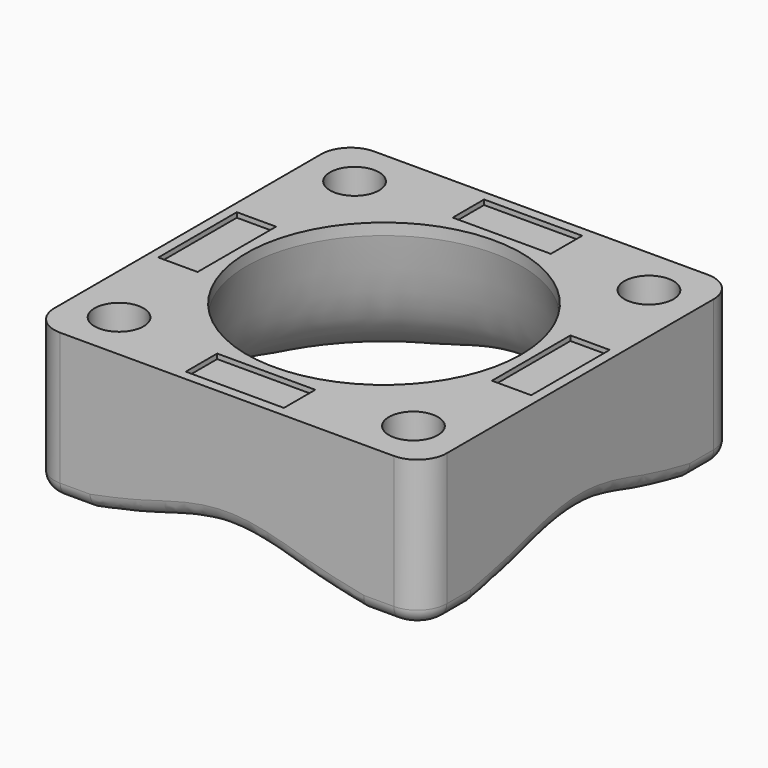
from build123d import *

# Parameters (mm, degrees)
SKETCH024_W           = 80
SKETCH024_H           = 80
PAD008_DEPTH          = 30
FILLET002_R           = 6
SKETCH025_R           = 28
POCKET005_DEPTH       = 30
SKETCH026_R           = 1.75
POCKET006_DEPTH       = 26
SKETCH027_R           = 5
POCKET007_DEPTH       = 10
CHAMFER003_SIZE       = 3
FILLET003_R           = 3
SKETCH029_W           = 20
SKETCH029_H           = 8
POCKET008_DEPTH       = 1
POLARPATTERN008_COUNT = 4
FILLET004_R           = 1.5


with BuildPart() as part:
    # Sketch024 → Pad008 (new body)
    with BuildSketch(Plane.XY):
        Rectangle(SKETCH024_W, SKETCH024_H)
    extrude(amount=-PAD008_DEPTH)

    # Fillet002
    fillet002_edges = [part.edges().sort_by_distance(p)[0] for p in [
        (-40, 40, -15),
        (40, 40, -15),
        (-40, -40, -15),
        (40, -40, -15),
    ]]
    fillet(fillet002_edges, radius=FILLET002_R)

    # Sketch025 (on Face2 of Fillet002) → Pocket005 (cut)
    with BuildSketch(Plane.XY):
        Circle(SKETCH025_R)
    extrude(amount=-POCKET005_DEPTH, mode=Mode.SUBTRACT)

    # Sketch026 (on Face2 of Pocket005) → Pocket006 (cut)
    with BuildSketch(Plane.XY):
        with Locations((-30, 30)):
            Circle(SKETCH026_R)
        with Locations((30, 30)):
            Circle(SKETCH026_R)
        with Locations((30, -30)):
            Circle(SKETCH026_R)
        with Locations((-30, -30)):
            Circle(SKETCH026_R)
    extrude(amount=-POCKET006_DEPTH, mode=Mode.SUBTRACT)

    # Sketch027 (on Face2 of Pocket006) → Pocket007 (cut)
    with BuildSketch(Plane.XY):
        with Locations((-30, -30)):
            Circle(SKETCH027_R)
        with Locations((30, -30)):
            Circle(SKETCH027_R)
        with Locations((30, 30)):
            Circle(SKETCH027_R)
        with Locations((-30, 30)):
            Circle(SKETCH027_R)
    extrude(amount=-POCKET007_DEPTH, mode=Mode.SUBTRACT)

    # Chamfer003
    chamfer003_edges = [part.edges().sort_by_distance(p)[0] for p in [
        (28.25, 30, -10),
        (-31.75, 30, -10),
        (28.25, -30, -10),
        (-31.75, -30, -10),
    ]]
    chamfer(chamfer003_edges, length=CHAMFER003_SIZE)

    # Sketch028 → Groove (revolve, cut)
    with BuildSketch(Plane(origin=(0, 0, 0), x_dir=(0.707107, 0.707107, 0), z_dir=(0.707107, -0.707107, 0))):
        with BuildLine():
            add(Edge.make_bspline(
                [(-27.190616, 3.555547), (-28.347025, -5.659561), (-30.8329, -18.742874), (-36.458788, -25.196108), (-40.623049, -28.4503), (-47.131438, -30.380753)],
                knots=[0, 0, 0, 0, 0.333333, 0.666667, 1, 1, 1, 1], degree=3))
            Line((-47.131438, -30.380753), (-30.227307, -45.760513))
            Line((-30.227307, -45.760513), (-12.906769, -36.421413))
            Line((-12.906769, -36.421413), (-23.789185, 4.701681))
            Line((-23.789185, 4.701681), (-27.190616, 3.555547))
        make_face()
    revolve(axis=Axis((0, 0, 0), (0, 0, 1)), mode=Mode.SUBTRACT)

    # Fillet003
    fillet003_edges = [part.edges().sort_by_distance(p)[0] for p in [
        (28.248143, -40, -30),
        (0, -40, -27.558139),
        (-28.248143, -40, -30),
        (-40, 0, -27.558139),
        (-28.248143, 40, -30),
        (0, 40, -27.558139),
        (28.248143, 40, -30),
        (40, 0, -27.558139),
    ]]
    fillet(fillet003_edges, radius=FILLET003_R)

    # Sketch029 (on Face4 of Fillet003) → Pocket008 (cut)
    with BuildSketch(Plane.XY):
        with Locations((0, 34)):
            Rectangle(SKETCH029_W, SKETCH029_H)
    pocket008 = extrude(amount=-POCKET008_DEPTH, mode=Mode.SUBTRACT)

    # PolarPattern008: Pocket008 ×4 about axis
    polarpattern008_axis = Axis((0, 0, 0), (0, 0, 1))
    for i in range(1, POLARPATTERN008_COUNT):
        add(pocket008.rotate(polarpattern008_axis, i * 360 / POLARPATTERN008_COUNT), mode=Mode.SUBTRACT)

    # Fillet004
    fillet004_edges = [part.edges().sort_by_distance(p)[0] for p in [
        (28.25, -30, -26),
        (-31.75, -30, -26),
        (-31.75, 30, -26),
        (28.25, 30, -26),
    ]]
    fillet(fillet004_edges, radius=FILLET004_R)


solid = part.part
